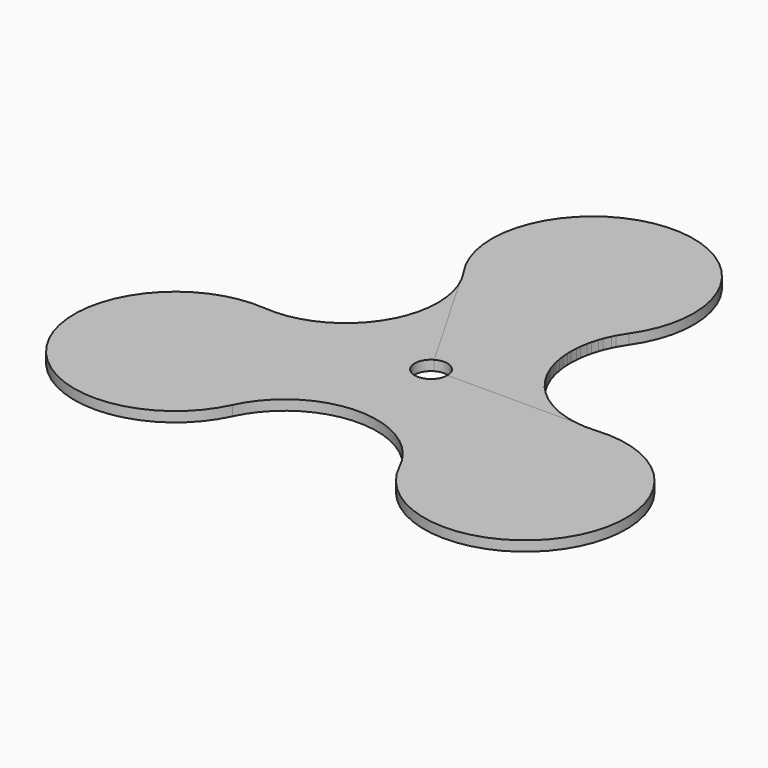
from build123d import *

# Parameters (mm, degrees)
F0_R     = 100.0125
F0_R_2   = 20.32
F1_DEPTH = 12.5
F3_DEPTH = 12.5


with BuildPart() as f1:
    # F0 (on Top) → F1 (new body)
    with BuildSketch(Plane.XY):
        with BuildLine():
            ThreePointArc((206.435964, -0.464583), (97.529962, 56.30895), (102.815642, 179.011081))
            ThreePointArc((102.815642, 179.011081), (0, 376.2375), (-102.815642, 179.011081))
            ThreePointArc((-102.815642, 179.011081), (-97.529962, 56.30895), (-206.435964, -0.464583))
            ThreePointArc((-206.435964, -0.464583), (-325.831233, -188.11875), (-103.620323, -178.546498))
            ThreePointArc((-103.620323, -178.546498), (0, -112.617899), (103.620323, -178.546498))
            ThreePointArc((103.620323, -178.546498), (325.831233, -188.11875), (206.435964, -0.464583))
        make_face()
        Circle(F0_R, mode=Mode.SUBTRACT)
        Circle(F0_R)
        Circle(F0_R_2, mode=Mode.SUBTRACT)
    extrude(amount=F1_DEPTH)


with BuildPart() as f3:
    # F2 (on Top) → F3 (new body)
    with BuildSketch(Plane.XY):
        with BuildLine():
            ThreePointArc((182.369894, 0), (92.062135, 67.049239), (102.815642, 179.011081))
            ThreePointArc((102.815642, 179.011081), (0, 376.2375), (-102.815642, 179.011081))
            ThreePointArc((-102.815642, 179.011081), (-96.444458, 168.780784), (-91.184947, 157.936961))
            Line((-91.184947, 157.936961), (-10.16, 17.597636))
            ThreePointArc((-10.16, 17.597636), (10.16, 17.597636), (20.32, 0))
            Line((20.32, 0), (182.369894, 0))
        make_face()
    extrude(amount=F3_DEPTH)


solid = Compound([f1.part, f3.part])
